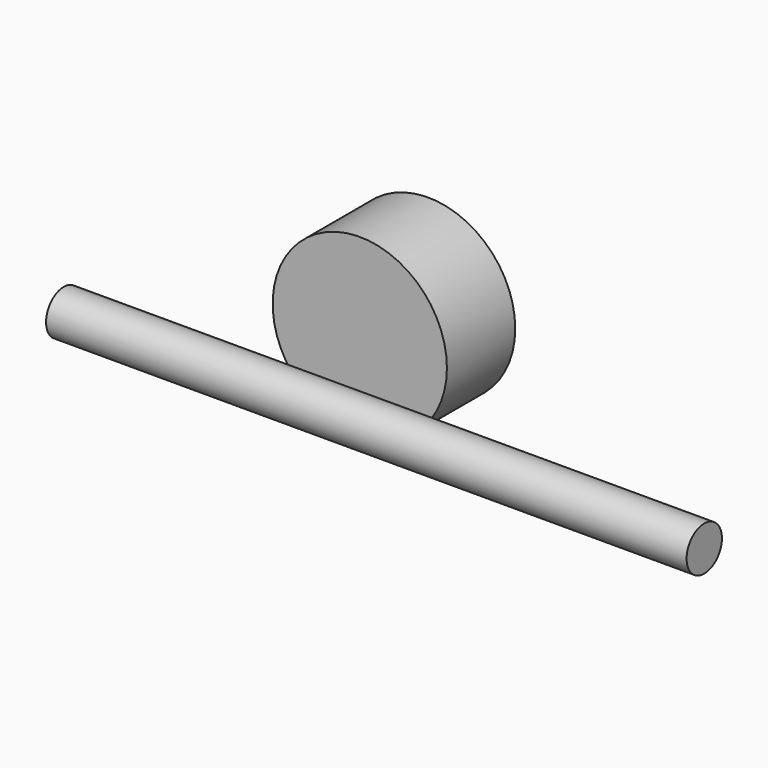
from build123d import *

# Parameters (mm, degrees)
F0_R     = 20.40346
F1_DEPTH = 20
F2_R     = 5.172132
F3_DEPTH = 150


with BuildPart() as f1:
    # F0 (on Front) → F1 (new body)
    with BuildSketch(Plane.XZ):
        Circle(F0_R)
    extrude(amount=F1_DEPTH)


with BuildPart() as f3:
    # F2 (on Right) → F3 (new body)
    with BuildSketch(Plane.YZ):
        with Locations((-106.666148, 40.148478)):
            Circle(F2_R)
    extrude(amount=F3_DEPTH)


solid = Compound([f1.part, f3.part])
